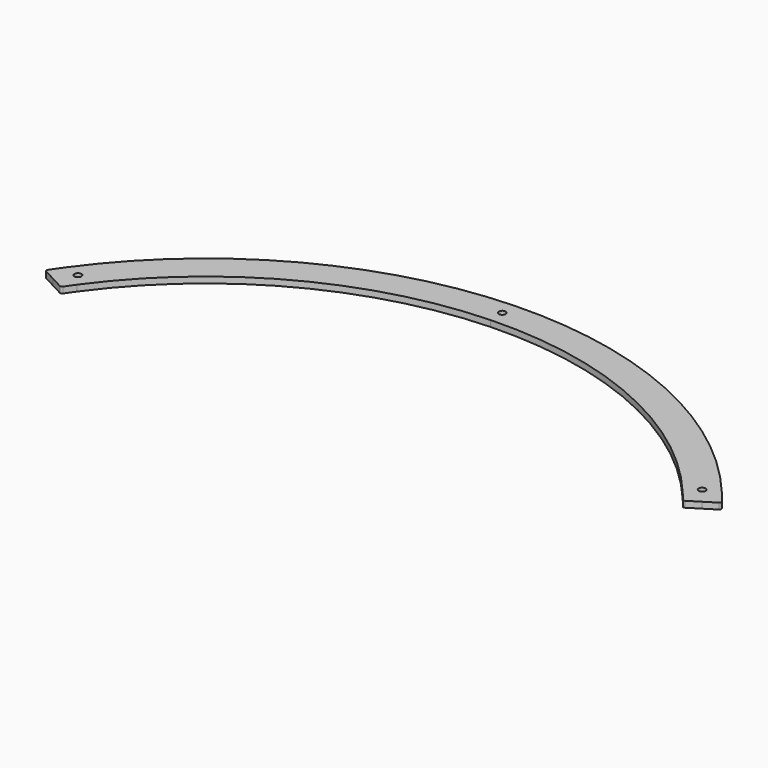
from build123d import *

# Parameters (mm, degrees)
PAD021_DEPTH                        = 3
SKETCH083_R                         = 1.7
POCKET041_DEPTH                     = 0.001
POCKET041_DEPTH_BACK                = 3.001
SKETCH084_R                         = 1.7
POCKET042_DEPTH                     = 0.001
POCKET042_DEPTH_BACK                = 3.001
BODY001003005003013_PLACEMENT_ANGLE = 60
CLONE017_PLACEMENT_ANGLE            = 58


with BuildPart() as part:
    # Sketch082 → Pad021 (new body)
    with BuildSketch(Plane.XY):
        with BuildLine():
            ThreePointArc((156.627412, 120.879551), (87.258751, 177.56667), (0, 197.848457))
            Line((0, 197.848457), (0, 182.848457))
            ThreePointArc((144.752611, 111.714995), (80.643177, 164.104346), (0, 182.848457))
            ThreePointArc((148.102078, 107.234942), (146.444477, 109.487778), (144.752611, 111.714995))
            ThreePointArc((148.102078, 107.234942), (148.703343, 106.843433), (149.41205, 106.955386))
            Line((155.154429, 110.27075), (149.41205, 106.955386))
            Line((155.154429, 110.27075), (160.726477, 113.487773))
            ThreePointArc((160.726477, 113.487773), (161.203737, 114.141753), (161.040435, 114.934722))
            ThreePointArc((161.040435, 114.934722), (158.861734, 117.927781), (156.627412, 120.879551))
        make_face()
    pad021 = extrude(amount=PAD021_DEPTH)

    # Mirrored029: Pad021 across Sketch082 V_Axis
    add(pad021.mirror(Plane(origin=(0, 0, 0), x_dir=(0, 0, 1), z_dir=(1, 0, 0))))

    # Sketch083 → Pocket041 (cut, two sides)
    with BuildSketch(Plane.XY) as pocket041_sk:
        with Locations((149.149219, 118.266841)):
            Circle(SKETCH083_R)
        with Locations((-149.149219, 118.266841)):
            Circle(SKETCH083_R)
    extrude(amount=-POCKET041_DEPTH, mode=Mode.SUBTRACT)
    extrude(pocket041_sk.sketch, amount=POCKET041_DEPTH_BACK, mode=Mode.SUBTRACT)

    # Sketch084 → Pocket042 (cut, two sides)
    with BuildSketch(Plane.XY) as pocket042_sk:
        with Locations((0, 190.348457)):
            Circle(SKETCH084_R)
    extrude(amount=-POCKET042_DEPTH, mode=Mode.SUBTRACT)
    extrude(pocket042_sk.sketch, amount=POCKET042_DEPTH_BACK, mode=Mode.SUBTRACT)


with BuildPart() as part_1:
    # Body001003005003013 placement: moved
    add(part.part.rotate(Axis((0, 0, 0), (0, 0, 1)), BODY001003005003013_PLACEMENT_ANGLE))


with BuildPart() as part_2:
    # Clone017 placement: moved
    add(part_1.part.moved(Location((817, 805, 0))).rotate(Axis((817, 805, 0), (0, 0, -1)), CLONE017_PLACEMENT_ANGLE))


solid = part_2.part
